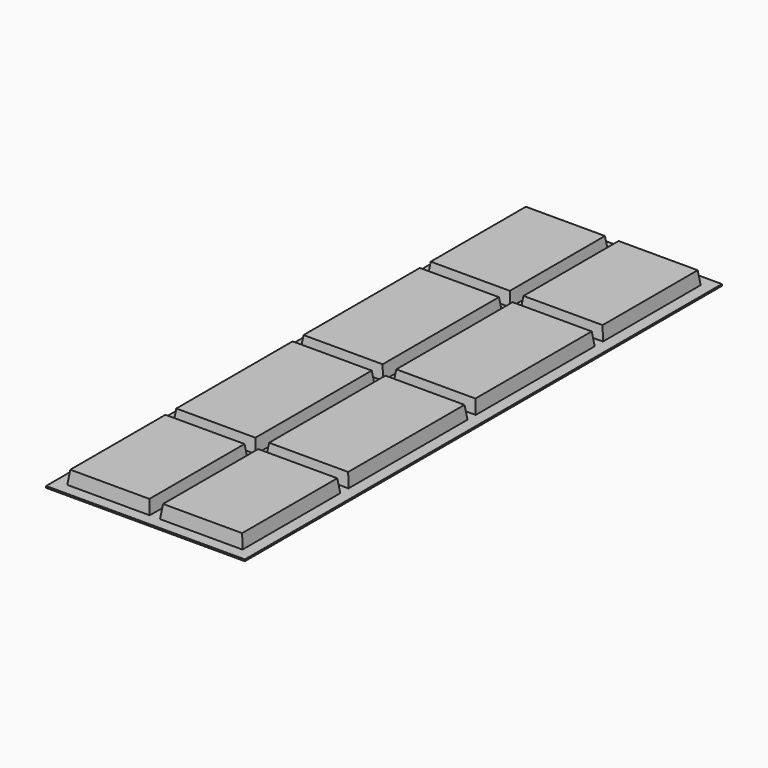
from build123d import *

# Parameters (mm, degrees)
F1_DEPTH  = 1800
F3_DEPTH  = 800
F4_DEPTH  = 600
F5_DEPTH  = 600
F6_DEPTH  = 800
F7_DEPTH  = 600
F8_DEPTH  = 1900
F9_DEPTH  = 1900
F10_DEPTH = 1900
F11_DEPTH = 800


with BuildPart() as f1:
    # F0 (on Front) → F1 (new body)
    with BuildSketch(Plane.XZ):
        Polygon((-134.7514528915, 259.4524627924), (-170.3375428915, 259.4524627924), (-170.3375428915, 254.4524627924), (-130.3375428915, 254.4524627924), (-125.3375428915, 294.4524627924), (104.6624571085, 294.4524627924), (109.6624571085, 254.4524627924), (129.6624571085, 254.4524627924), (129.6624571085, 259.4524627924), (114.0763682012, 259.4524627924), (109.0763682012, 299.4524627924), (-129.7514517988, 299.4524627924), align=None)
        Polygon((-170.3375428915, 299.4524627924), (-170.3375428915, 259.4524627924), (-134.7514528915, 259.4524627924), (-129.7514517988, 299.4524627924), align=None)
        Polygon((150.2485460158, 299.4524627924), (109.0763682012, 299.4524627924), (114.0763682012, 259.4524627924), (129.6624571085, 259.4524627924), (145.2485460158, 259.4524627924), align=None)
        Polygon((389.0763660158, 299.4524627924), (150.2485460158, 299.4524627924), (145.2485460158, 259.4524627924), (129.6624571085, 259.4524627924), (129.6624571085, 254.4524627924), (149.6624571085, 254.4524627924), (154.6624571085, 294.4524627924), (384.6624571085, 294.4524627924), (389.6624571085, 254.4524627924), (429.6624571085, 254.4524627924), (429.6624571085, 259.4524627924), (394.0763671085, 259.4524627924), align=None)
        Polygon((429.6624571085, 299.4524627924), (389.0763660158, 299.4524627924), (394.0763671085, 259.4524627924), (429.6624571085, 259.4524627924), align=None)
    extrude(amount=-F1_DEPTH)

    # F2 (on face) → F3 (cut)
    with BuildSketch(Plane(origin=(-170.3375428915, 0, 0), x_dir=(0, -1, 0), z_dir=(-1, 0, 0))):
        Polygon((-1800, 254.4524627924), (-1760, 254.4524627924), (-1759.375, 259.4524627924), (-1755, 294.4524627924), (-1760.0389110927, 294.4524627924), (-1764.4139110927, 259.4524627924), (-1800, 259.4524627924), align=None)
    extrude(amount=-F3_DEPTH, mode=Mode.SUBTRACT)

    # F2 (on face) → F4 (join)
    with BuildSketch(Plane(origin=(-170.3375428915, 0, 0), x_dir=(0, -1, 0), z_dir=(-1, 0, 0))):
        Polygon((-1760.0389110927, 294.4524627924), (-1759.4139110927, 299.4524627924), (-1800, 299.4524627924), (-1800, 259.4524627924), (-1764.4139110927, 259.4524627924), align=None)
    extrude(amount=-F4_DEPTH)

    # F2 (on face) → F5 (join)
    with BuildSketch(Plane(origin=(-170.3375428915, 0, 0), x_dir=(0, -1, 0), z_dir=(-1, 0, 0))):
        Polygon((-1800, 254.4524627924), (-1760, 254.4524627924), (-1759.375, 259.4524627924), (-1755, 294.4524627924), (-1760.0389110927, 294.4524627924), (-1764.4139110927, 259.4524627924), (-1800, 259.4524627924), align=None)
    extrude(amount=-F5_DEPTH)

    # F2 (on face) → F6 (cut)
    with BuildSketch(Plane(origin=(-170.3375428915, 0, 0), x_dir=(0, -1, 0), z_dir=(-1, 0, 0))):
        Polygon((-1400, 254.4524627924), (-1360, 254.4524627924), (-1355, 294.4524627924), (-1360.0389110927, 294.4524627924), (-1364.4139110927, 259.4524627924), (-1395.5860889073, 259.4524627924), (-1399.9610889073, 294.4524627924), (-1405, 294.4524627924), (-1400.625, 259.4524627924), align=None)
        Polygon((-880.0389110927, 294.4524627924), (-879.4139110927, 299.4524627924), (-900, 299.4524627924), (-900, 259.4524627924), (-884.4139110927, 259.4524627924), align=None)
        Polygon((-920, 254.4524627924), (-900, 254.4524627924), (-900, 259.4524627924), (-915.5860889073, 259.4524627924), (-919.9610889073, 294.4524627924), (-925, 294.4524627924), align=None)
        Polygon((-400.0389110927, 294.4524627924), (-399.4139110927, 299.4524627924), (-440.5860889073, 299.4524627924), (-439.9610889073, 294.4524627924), (-435.5860889073, 259.4524627924), (-404.4139110927, 259.4524627924), align=None)
        Polygon((-35.5860889073, 259.4524627924), (0, 259.4524627924), (0, 299.4524627924), (-40.5860889073, 299.4524627924), (-39.9610889073, 294.4524627924), align=None)
    extrude(amount=-F6_DEPTH, mode=Mode.SUBTRACT)

    # F2 (on face) → F7 (join)
    with BuildSketch(Plane(origin=(-170.3375428915, 0, 0), x_dir=(0, -1, 0), z_dir=(-1, 0, 0))):
        Polygon((-40, 254.4524627924), (0, 254.4524627924), (0, 259.4524627924), (-35.5860889073, 259.4524627924), (-39.9610889073, 294.4524627924), (-45, 294.4524627924), (-40.625, 259.4524627924), align=None)
        Polygon((-40, 254.4524627924), (0, 254.4524627924), (0, 259.4524627924), (-35.5860889073, 259.4524627924), (-39.9610889073, 294.4524627924), (-45, 294.4524627924), (-40.625, 259.4524627924), align=None)
        Polygon((-440, 254.4524627924), (-400, 254.4524627924), (-399.375, 259.4524627924), (-395, 294.4524627924), (-400.0389110927, 294.4524627924), (-404.4139110927, 259.4524627924), (-435.5860889073, 259.4524627924), (-439.9610889073, 294.4524627924), (-445, 294.4524627924), (-440.625, 259.4524627924), align=None)
        Polygon((-440, 254.4524627924), (-400, 254.4524627924), (-399.375, 259.4524627924), (-395, 294.4524627924), (-400.0389110927, 294.4524627924), (-404.4139110927, 259.4524627924), (-435.5860889073, 259.4524627924), (-439.9610889073, 294.4524627924), (-445, 294.4524627924), (-440.625, 259.4524627924), align=None)
        Polygon((-440, 254.4524627924), (-400, 254.4524627924), (-399.375, 259.4524627924), (-395, 294.4524627924), (-400.0389110927, 294.4524627924), (-404.4139110927, 259.4524627924), (-435.5860889073, 259.4524627924), (-439.9610889073, 294.4524627924), (-445, 294.4524627924), (-440.625, 259.4524627924), align=None)
        Polygon((-920, 254.4524627924), (-900, 254.4524627924), (-900, 259.4524627924), (-915.5860889073, 259.4524627924), (-919.9610889073, 294.4524627924), (-925, 294.4524627924), align=None)
        Polygon((-915.5860889073, 259.4524627924), (-900, 259.4524627924), (-900, 299.4524627924), (-920.5860889073, 299.4524627924), (-919.9610889073, 294.4524627924), align=None)
        Polygon((-900, 254.4524627924), (-880, 254.4524627924), (-879.375, 259.4524627924), (-875, 294.4524627924), (-880.0389110927, 294.4524627924), (-884.4139110927, 259.4524627924), (-900, 259.4524627924), align=None)
        Polygon((-900, 254.4524627924), (-880, 254.4524627924), (-879.375, 259.4524627924), (-875, 294.4524627924), (-880.0389110927, 294.4524627924), (-884.4139110927, 259.4524627924), (-900, 259.4524627924), align=None)
        Polygon((-1400, 254.4524627924), (-1360, 254.4524627924), (-1355, 294.4524627924), (-1360.0389110927, 294.4524627924), (-1364.4139110927, 259.4524627924), (-1395.5860889073, 259.4524627924), (-1399.9610889073, 294.4524627924), (-1405, 294.4524627924), (-1400.625, 259.4524627924), align=None)
        Polygon((-1360.0389110927, 294.4524627924), (-1359.4139110927, 299.4524627924), (-1400.5860889073, 299.4524627924), (-1399.9610889073, 294.4524627924), (-1395.5860889073, 259.4524627924), (-1364.4139110927, 259.4524627924), align=None)
        Polygon((-1400, 254.4524627924), (-1360, 254.4524627924), (-1355, 294.4524627924), (-1360.0389110927, 294.4524627924), (-1364.4139110927, 259.4524627924), (-1395.5860889073, 259.4524627924), (-1399.9610889073, 294.4524627924), (-1405, 294.4524627924), (-1400.625, 259.4524627924), align=None)
    extrude(amount=-F7_DEPTH)

    # F0 (on Front) → F8 (cut)
    with BuildSketch(Plane.XZ):
        Polygon((-170.3375428915, 299.4524627924), (-170.3375428915, 259.4524627924), (-134.7514528915, 259.4524627924), (-129.7514517988, 299.4524627924), align=None)
    extrude(amount=-F8_DEPTH, mode=Mode.SUBTRACT)

    # F0 (on Front) → F9 (cut)
    with BuildSketch(Plane.XZ):
        Polygon((150.2485460158, 299.4524627924), (109.0763682012, 299.4524627924), (114.0763682012, 259.4524627924), (129.6624571085, 259.4524627924), (145.2485460158, 259.4524627924), align=None)
    extrude(amount=-F9_DEPTH, mode=Mode.SUBTRACT)

    # F0 (on Front) → F10 (cut)
    with BuildSketch(Plane.XZ):
        Polygon((429.6624571085, 299.4524627924), (389.0763660158, 299.4524627924), (394.0763671085, 259.4524627924), (429.6624571085, 259.4524627924), align=None)
    extrude(amount=-F10_DEPTH, mode=Mode.SUBTRACT)

    # F2 (on face) → F11 (cut)
    with BuildSketch(Plane(origin=(-170.3375428915, 0, 0), x_dir=(0, -1, 0), z_dir=(-1, 0, 0))):
        Polygon((-1760.0389110927, 294.4524627924), (-1759.4139110927, 299.4524627924), (-1800, 299.4524627924), (-1800, 259.4524627924), (-1764.4139110927, 259.4524627924), align=None)
        Polygon((-1360.0389110927, 294.4524627924), (-1359.4139110927, 299.4524627924), (-1400.5860889073, 299.4524627924), (-1399.9610889073, 294.4524627924), (-1395.5860889073, 259.4524627924), (-1364.4139110927, 259.4524627924), align=None)
        Polygon((-915.5860889073, 259.4524627924), (-900, 259.4524627924), (-900, 299.4524627924), (-920.5860889073, 299.4524627924), (-919.9610889073, 294.4524627924), align=None)
    extrude(amount=-F11_DEPTH, mode=Mode.SUBTRACT)


solid = f1.part
